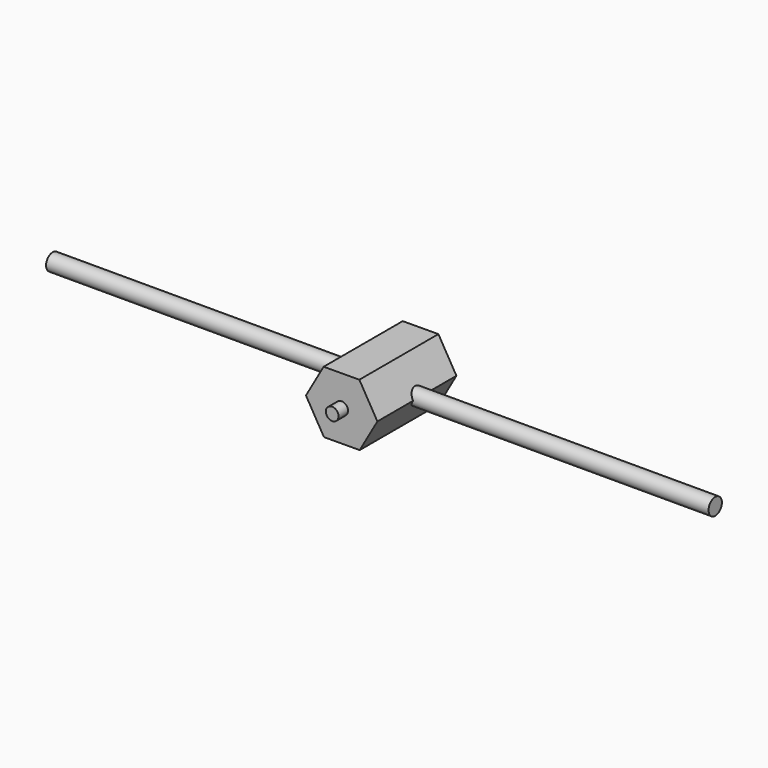
from build123d import *

# Parameters (mm, degrees)
F1_DEPTH = 431.8
F2_R     = 27.741248
F3_DEPTH = 51.816
F4_R     = 36.461975
F5_DEPTH = 1447.8


with BuildPart() as f1:
    # F0 (on Front) → F1 (new body)
    with BuildSketch(Plane.XZ):
        Polygon((78.76529, -134.798247), (156.121351, 0.813618), (77.356061, 135.611866), (-78.76529, 134.798247), (-156.121351, -0.813618), (-77.356061, -135.611866), align=None)
    extrude(amount=F1_DEPTH)

    # F2 (on face) → F3 (join)
    with BuildSketch(Plane.XZ.offset(431.8)):
        Circle(F2_R)
    extrude(amount=F3_DEPTH)

    # F4 (on Right) → F5 (join, symmetric)
    with BuildSketch(Plane.YZ):
        with Locations((-200.54774, 0)):
            Circle(F4_R)
    extrude(amount=F5_DEPTH, both=True)


solid = f1.part
